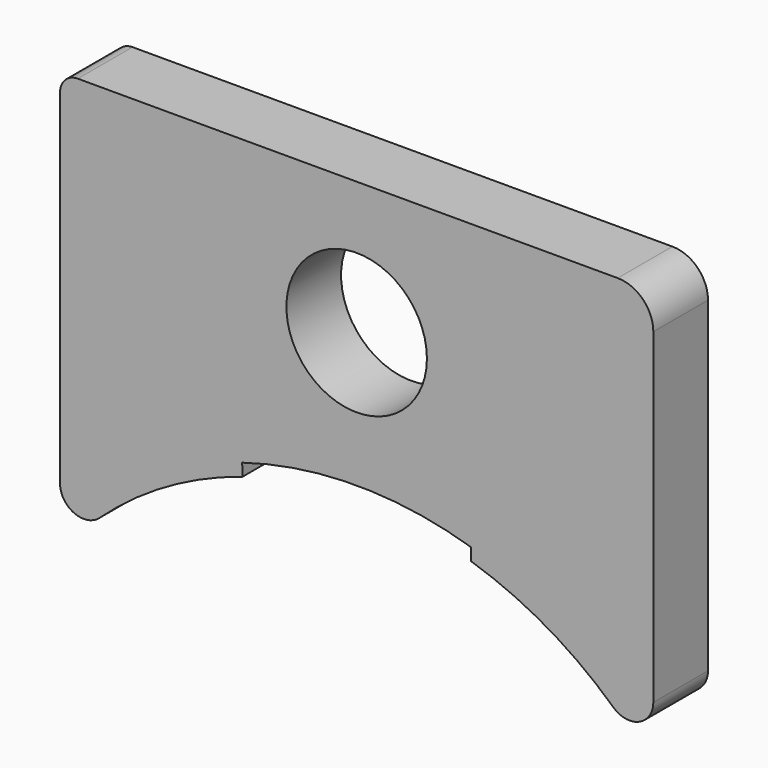
from build123d import *

# Parameters (mm, degrees)
F0_R     = 4.699
F1_DEPTH = 4.572


with BuildPart() as f1:
    # F0 (on Front) → F1 (new body)
    with BuildSketch(Plane.XZ):
        with BuildLine():
            Line((17.4625, 25.909378), (-18.653125, 25.909378))
            ThreePointArc((-18.653125, 25.909378), (-19.495024, 25.560652), (-19.84375, 24.718753))
            Line((-19.84375, 24.718753), (-19.84375, 1.700003))
            ThreePointArc((-19.84375, 1.700003), (-18.894742, 0.246565), (-17.182353, 0.530858))
            ThreePointArc((-17.182353, 0.530858), (-12.711543, 3.814906), (-7.634412, 6.050047))
            Line((-7.634412, 6.050047), (-7.658311, 6.873736))
            ThreePointArc((-7.658311, 6.873736), (0, 8.018279), (7.658311, 6.873736))
            Line((7.658311, 6.873736), (7.658311, 6.042503))
            ThreePointArc((7.658311, 6.042503), (12.72239, 3.808632), (17.182353, 0.530858))
            ThreePointArc((17.182353, 0.530858), (18.894742, 0.246565), (19.84375, 1.700003))
            Line((19.84375, 1.700003), (19.84375, 23.528128))
            ThreePointArc((19.84375, 23.528128), (19.146298, 25.211926), (17.4625, 25.909378))
        make_face()
        with Locations((0, 17.019378)):
            Circle(F0_R, mode=Mode.SUBTRACT)
    extrude(amount=F1_DEPTH)


solid = f1.part
